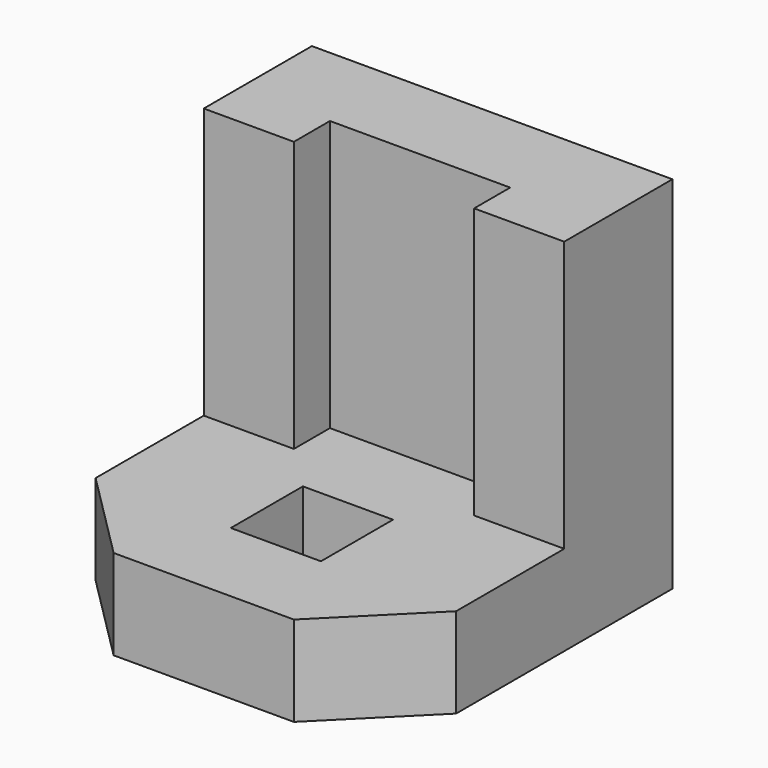
from build123d import *

# Parameters (mm, degrees)
F0_W     = 101.6
F0_H     = 101.6
F1_DEPTH = 101.6
F2_W     = 63.5
F2_H     = 76.2
F3_DEPTH = 109.728
F4_W     = 25.4
F4_H     = 25.4
F5_DEPTH = 70.866
F6_W     = 50.8
F6_H     = 12.7
F7_DEPTH = 76.2


with BuildPart() as f1:
    # F0 (on Top) → F1 (new body)
    with BuildSketch(Plane.XY):
        with Locations((-50.8, -50.8)):
            Rectangle(F0_W, F0_H)
    extrude(amount=F1_DEPTH)

    # F2 (on face) → F3 (cut)
    with BuildSketch(Plane.YZ):
        with Locations((-69.85, 63.5)):
            Rectangle(F2_W, F2_H)
    extrude(amount=-F3_DEPTH, mode=Mode.SUBTRACT)

    # F4 (on face) → F5 (cut)
    with BuildSketch(Plane.XY.offset(25.4)):
        Polygon((0, -76.2), (-25.4, -101.6), (0, -101.6), align=None)
        Polygon((-101.6, -76.2), (-101.6, -101.6), (-76.2, -101.6), align=None)
        with Locations((-50.8, -63.5)):
            Rectangle(F4_W, F4_H)
    extrude(amount=-F5_DEPTH, mode=Mode.SUBTRACT)

    # F6 (on face) → F7 (cut)
    with BuildSketch(Plane.XY.offset(101.6)):
        with Locations((-50.8, -31.75)):
            Rectangle(F6_W, F6_H)
    extrude(amount=-F7_DEPTH, mode=Mode.SUBTRACT)


solid = f1.part
